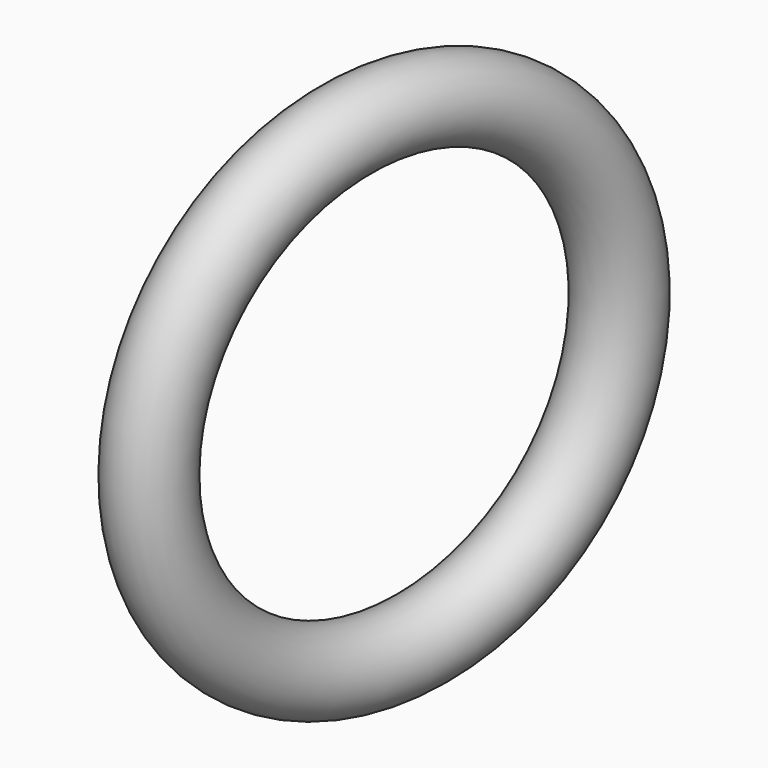
from build123d import *

# Parameters (mm, degrees)
F2_R     = 25
F4_ANGLE = 45
F5_ANGLE = 101.25


with BuildPart() as f3:
    # F3: sweep along a path in F0
    with BuildLine(Plane.XZ) as f3_path:
        CenterArc((0, 0), 151.9936, 0, 360)
    # F2 (on line) → F3 (sweep)
    with BuildSketch(Plane.YZ):
        with Locations((0, -152.045994997)):
            Circle(F2_R)
    sweep(path=f3_path.line)


with BuildPart() as f3_1:
    # F4: moved
    add(f3.part.rotate(Axis((0, 0, 0), (0, -1, 0)), F4_ANGLE))


with BuildPart() as f3_2:
    # F5: moved
    add(f3_1.part.rotate(Axis((0, 0, -75.9968), (0, 0, -1)), F5_ANGLE))


solid = f3_2.part
